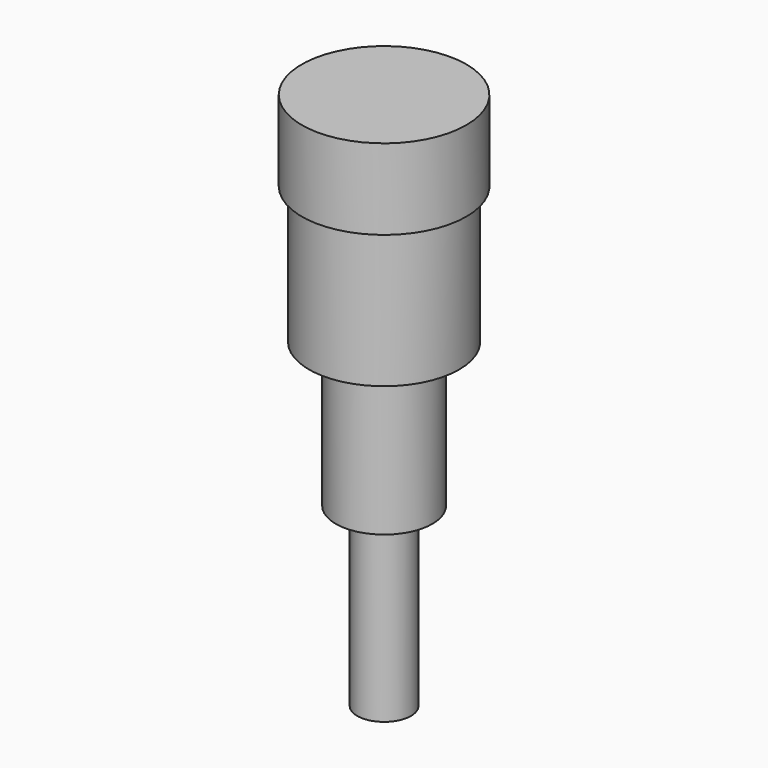
from build123d import *

# Parameters (mm, degrees)
F0_R          = 71.561005
F1_DEPTH      = 70.104
F2_R          = 65.314313
F3_DEPTH      = 62.23
F3_DEPTH_BACK = 119.126
F4_R          = 42.050536
F5_DEPTH      = 25.4
F5_DEPTH_BACK = 244.856
F6_R          = 23.371581
F7_DEPTH      = 25.4
F7_DEPTH_BACK = 398.018


with BuildPart() as f1:
    # F0 (on Top) → F1 (new body)
    with BuildSketch(Plane.XY):
        Circle(F0_R)
    extrude(amount=F1_DEPTH)

    # F2 (on Top) → F3 (join, two sides)
    with BuildSketch(Plane.XY) as f3_sk:
        Circle(F2_R)
    extrude(amount=F3_DEPTH)
    extrude(f3_sk.sketch, amount=-F3_DEPTH_BACK)

    # F4 (on Top) → F5 (join, two sides)
    with BuildSketch(Plane.XY) as f5_sk:
        Circle(F4_R)
    extrude(amount=F5_DEPTH)
    extrude(f5_sk.sketch, amount=-F5_DEPTH_BACK)

    # F6 (on Top) → F7 (join, two sides)
    with BuildSketch(Plane.XY) as f7_sk:
        Circle(F6_R)
    extrude(amount=F7_DEPTH)
    extrude(f7_sk.sketch, amount=-F7_DEPTH_BACK)


solid = f1.part
